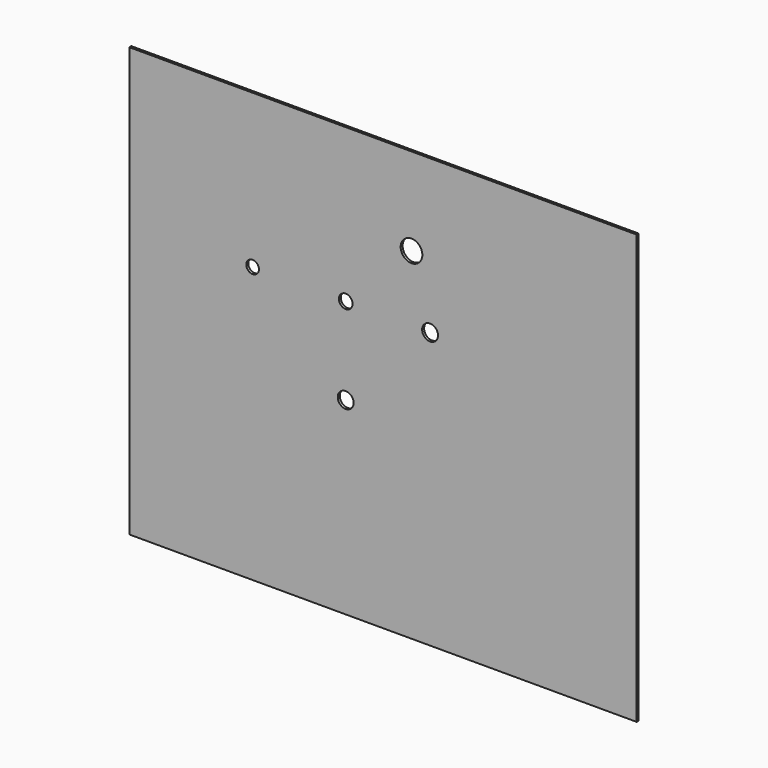
from build123d import *

# Parameters (mm, degrees)
F0_W     = 204.43416
F0_H     = 172.844041
F0_R     = 3.189176
F0_R_2   = 2.54707
F0_R_3   = 3.200491
F1_DEPTH = 1


with BuildPart() as f1:
    # F0 (on Front) → F1 (new body)
    with BuildSketch(Plane.XZ):
        with Locations((52.538497, -24.629315)):
            Rectangle(F0_W, F0_H)
        with Locations((37.5, -35)):
            Circle(F0_R, mode=Mode.SUBTRACT)
        Circle(F0_R_2, mode=Mode.SUBTRACT)
        with BuildLine():
            ThreePointArc((39.450631, 1.950631), (40.048622, 1.055674), (40.258608, 0))
            ThreePointArc((40.258608, 0), (34.951378, -1.055674), (39.450631, 1.950631))
        make_face(mode=Mode.SUBTRACT)
        with Locations((71.5, 0)):
            Circle(F0_R_3, mode=Mode.SUBTRACT)
        with BuildLine():
            ThreePointArc((68.386278, 26.516504), (65.688744, 22.47936), (60.926608, 23.426608))
            ThreePointArc((60.926608, 23.426608), (62.344264, 30.553649), (68.386278, 26.516504))
        make_face(mode=Mode.SUBTRACT)
    extrude(amount=F1_DEPTH)


solid = f1.part
